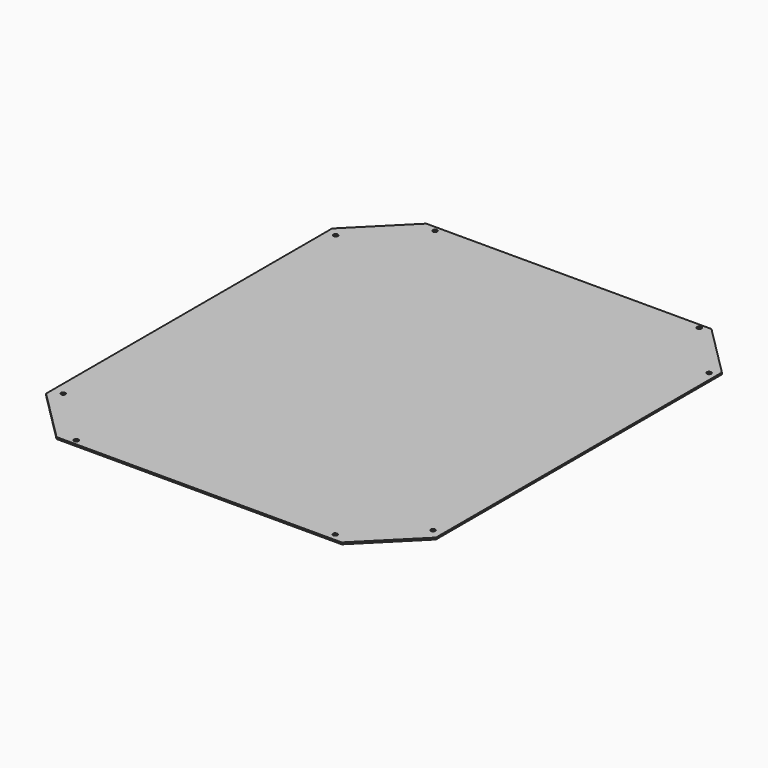
from build123d import *

# Parameters (mm, degrees)
SKETCH_R  = 2.5
PAD_DEPTH = 2


with BuildPart() as part:
    # Sketch → Pad (new body)
    with BuildSketch(Plane.XY):
        Polygon((-171.233897, 259.917405), (155.766103, 259.917405), (215.766103, 199.917405), (215.766103, -210.082595), (155.766103, -270.082595), (-171.233897, -270.082595), (-231.233897, -210.082595), (-231.233897, 199.917405), align=None)
        with Locations((-220.426407, 191.551941)):
            Circle(SKETCH_R, mode=Mode.SUBTRACT)
        with Locations((-156.405304, 253.931473)):
            Circle(SKETCH_R, mode=Mode.SUBTRACT)
        with Locations((145.682602, 255.015823)):
            Circle(SKETCH_R, mode=Mode.SUBTRACT)
        with Locations((-219.194855, -200.60849)):
            Circle(SKETCH_R, mode=Mode.SUBTRACT)
        with Locations((-153.602219, -263.909698)):
            Circle(SKETCH_R, mode=Mode.SUBTRACT)
        with Locations((141.603378, -261.699738)):
            Circle(SKETCH_R, mode=Mode.SUBTRACT)
        with Locations((204.925644, -200.476547)):
            Circle(SKETCH_R, mode=Mode.SUBTRACT)
        with Locations((207.374741, 191.907639)):
            Circle(SKETCH_R, mode=Mode.SUBTRACT)
    extrude(amount=PAD_DEPTH)


solid = part.part
